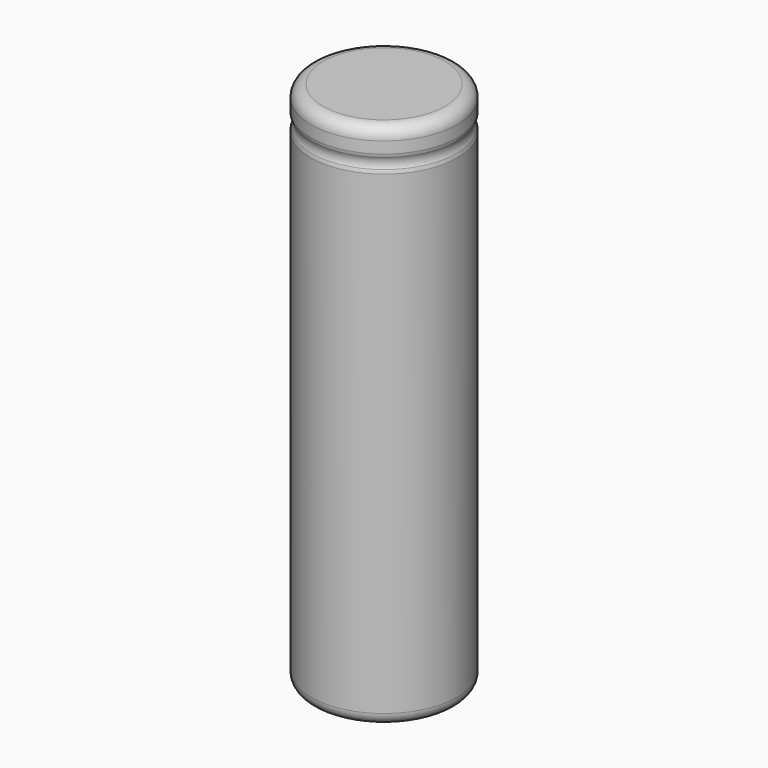
from build123d import *

# Parameters (mm, degrees)
F0_R     = 9
F1_DEPTH = 65
F2_R     = 1.5
F3_R     = 1.5
F5_R     = 1


with BuildPart() as f1:
    # F0 (on Top) → F1 (new body)
    with BuildSketch(Plane.XY):
        Circle(F0_R)
    extrude(amount=F1_DEPTH)

    # F2
    f2_edges = [f1.edges().sort_by_distance(p)[0] for p in [
        (-9, 0, 65),
        (-9, 0, 0),
    ]]
    fillet(f2_edges, radius=F2_R)

    # F3 (on Front) → F4 (revolve, cut)
    with BuildSketch(Plane.XZ):
        with Locations((10.25, 61)):
            Circle(F3_R)
    revolve(axis=Axis((0, 0, 65), (0, 0, 1)), mode=Mode.SUBTRACT)

    # F5
    f5_edges = [f1.edges().sort_by_distance(p)[0] for p in [
        (-9, 0, 60.170844),
        (-9, 0, 61.829156),
    ]]
    fillet(f5_edges, radius=F5_R)


solid = f1.part
